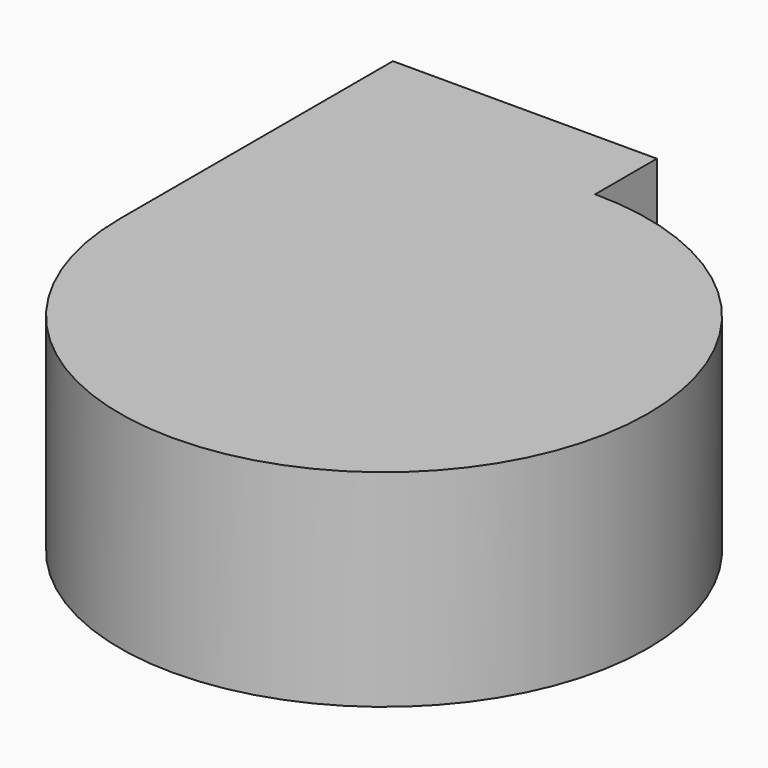
from build123d import *

# Parameters (mm, degrees)
F0_W      = 46.786774
F0_H      = 36.615796
F1_DEPTH  = 60.452
F1_FACE_W = 46.786774
F1_FACE_H = 36.615796


with BuildPart() as f1:
    # F0 (on Front) → F1 (new body)
    with BuildSketch(Plane.XZ):
        with Locations((23.393387, 18.307898)):
            Rectangle(F0_W, F0_H)
    extrude(amount=F1_DEPTH)

    # F1_face (on face) → F2 (revolve)
    with BuildSketch(Plane(origin=(23.393387, -60.452, 18.307898), x_dir=(1, 0, 0), z_dir=(0, -1, 0))):
        Rectangle(F1_FACE_W, F1_FACE_H)
    revolve(axis=Axis((46.786774, -60.452, 18.307898), (0, 0, 1)))


solid = f1.part
